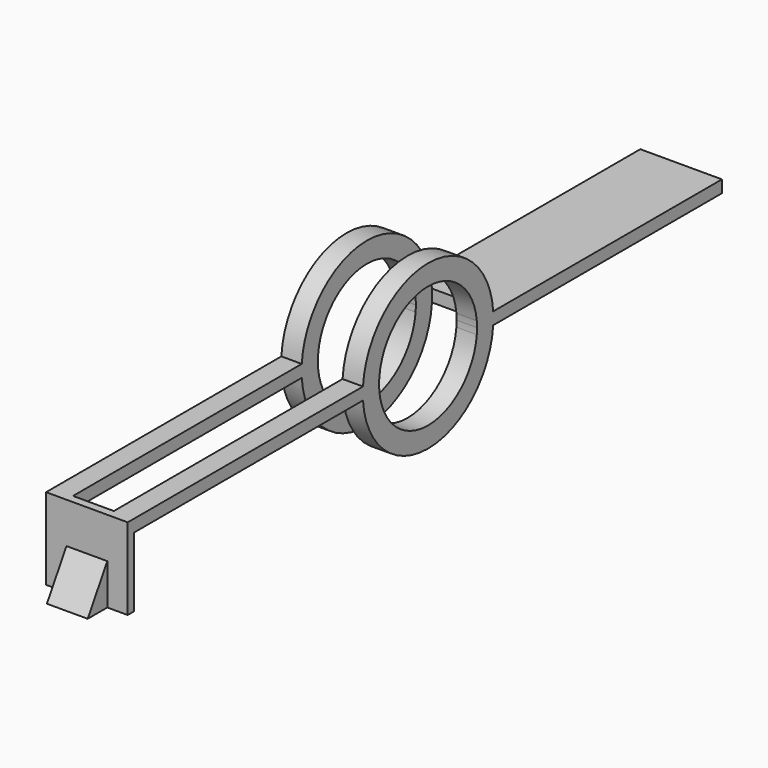
from build123d import *

# Parameters (mm, degrees)
F0_W          = 88.9
F0_H          = 1.905
F1_DEPTH      = 25.4
F2_W          = 12.7
F2_H          = 88.9715382425
F2_H_2        = 50.7284617575
F3_DEPTH      = 50.8
F3_DEPTH_BACK = 25.4
F4_W          = 6.35
F4_H          = 3.81
F5_DEPTH      = 2.54
F6_W          = 12.7
F6_H          = 12.7
F7_DEPTH      = 7.62
F9_DEPTH      = 25.4


with BuildPart() as f1:
    # F0 (on Right) → F1 (new body)
    with BuildSketch(Plane.YZ):
        with Locations((14.6420187533, 19.2617916149)):
            Rectangle(F0_W, F0_H)
        with Locations((14.6420187533, 17.3567916149)):
            Rectangle(F0_W, F0_H)
        with BuildLine():
            ThreePointArc((-29.8795194892, 20.2142916149), (-29.8258721082, 19.2624629951), (-29.8079812467, 18.3092916149))
            Line((-29.8079812467, 18.3092916149), (-29.8079812467, 20.2142916149))
            Line((-29.8079812467, 20.2142916149), (-29.8795194892, 20.2142916149))
        make_face()
        with BuildLine():
            Line((-29.8079812467, 16.4042916149), (-29.8079812467, 18.3092916149))
            ThreePointArc((-29.8079812467, 18.3092916149), (-29.8258721082, 17.3561202347), (-29.8795194892, 16.4042916149))
            Line((-29.8795194892, 16.4042916149), (-29.8079812467, 16.4042916149))
        make_face()
        with BuildLine():
            ThreePointArc((-29.8795194892, 16.4042916149), (-29.8258721082, 17.3561202347), (-29.8079812467, 18.3092916149))
            ThreePointArc((-29.8079812467, 18.3092916149), (-29.8258721082, 19.2624629951), (-29.8795194892, 20.2142916149))
            Line((-29.8795194892, 20.2142916149), (-36.2534705698, 20.2142916149))
            ThreePointArc((-36.2534705698, 20.2142916149), (-36.181868554, 19.2629874798), (-36.1579812467, 18.3092916149))
            ThreePointArc((-36.1579812467, 18.3092916149), (-36.181868554, 17.35559575), (-36.2534705698, 16.4042916149))
            Line((-36.2534705698, 16.4042916149), (-29.8795194892, 16.4042916149))
        make_face()
        with BuildLine():
            Line((-36.2534705698, 20.2142916149), (-29.8795194892, 20.2142916149))
            ThreePointArc((-29.8795194892, 20.2142916149), (-55.2079812467, 43.7092916149), (-80.5364430042, 20.2142916149))
            Line((-80.5364430042, 20.2142916149), (-74.1624919236, 20.2142916149))
            ThreePointArc((-74.1624919236, 20.2142916149), (-55.2079812467, 37.3592916149), (-36.2534705698, 20.2142916149))
        make_face()
        with BuildLine():
            ThreePointArc((-80.5364430042, 16.4042916149), (-55.2079812467, -7.0907083851), (-29.8795194892, 16.4042916149))
            Line((-29.8795194892, 16.4042916149), (-36.2534705698, 16.4042916149))
            ThreePointArc((-36.2534705698, 16.4042916149), (-55.2079812467, -0.7407083851), (-74.1624919236, 16.4042916149))
            Line((-74.1624919236, 16.4042916149), (-80.5364430042, 16.4042916149))
        make_face()
        with BuildLine():
            Line((-74.1624919236, 20.2142916149), (-80.5364430042, 20.2142916149))
            ThreePointArc((-80.5364430042, 20.2142916149), (-80.6079812467, 18.3092916149), (-80.5364430042, 16.4042916149))
            Line((-80.5364430042, 16.4042916149), (-74.1624919236, 16.4042916149))
            ThreePointArc((-74.1624919236, 16.4042916149), (-74.2579812467, 18.3092916149), (-74.1624919236, 20.2142916149))
        make_face()
        with BuildLine():
            ThreePointArc((-80.5364430042, 16.4042916149), (-80.6079812467, 18.3092916149), (-80.5364430042, 20.2142916149))
            Line((-80.5364430042, 20.2142916149), (-169.5079812467, 20.2142916149))
            Line((-169.5079812467, 20.2142916149), (-169.5079812467, 16.4042916149))
            Line((-169.5079812467, 16.4042916149), (-80.5364430042, 16.4042916149))
        make_face()
    extrude(amount=F1_DEPTH)

    # F2 (on face) → F3 (cut, two sides)
    with BuildSketch(Plane.XY.offset(20.2142916149)) as f3_sk:
        with Locations((12.7, -125.0222121254)):
            Rectangle(F2_W, F2_H)
        with Locations((12.7, -55.1722121254)):
            Rectangle(F2_W, F2_H_2)
    extrude(amount=-F3_DEPTH, mode=Mode.SUBTRACT)
    extrude(f3_sk.sketch, amount=F3_DEPTH_BACK, mode=Mode.SUBTRACT)

    # F4 (on face) → F5 (join)
    with BuildSketch(Plane.XZ.offset(169.5079812467)):
        Polygon((25.4, 20.2142916149), (6.35, 20.2142916149), (6.35, 16.4042916149), (0, 16.4042916149), (0, -5.1857083851), (25.4, -5.1857083851), align=None)
        with Locations((3.175, 18.3092916149)):
            Rectangle(F4_W, F4_H)
    extrude(amount=F5_DEPTH)

    # F6 (on face) → F7 (join)
    with BuildSketch(Plane.XZ.offset(172.0479812467)):
        with Locations((12.7, 1.1642916149)):
            Rectangle(F6_W, F6_H)
    extrude(amount=F7_DEPTH)

    # F8 (on face) → F9 (cut)
    with BuildSketch(Plane.YZ.offset(19.05)):
        Polygon((-179.6679812467, 7.5142916149), (-179.6679812467, -5.1857083851), (-172.0479812467, 7.5142916149), align=None)
    extrude(amount=-F9_DEPTH, mode=Mode.SUBTRACT)


solid = f1.part
